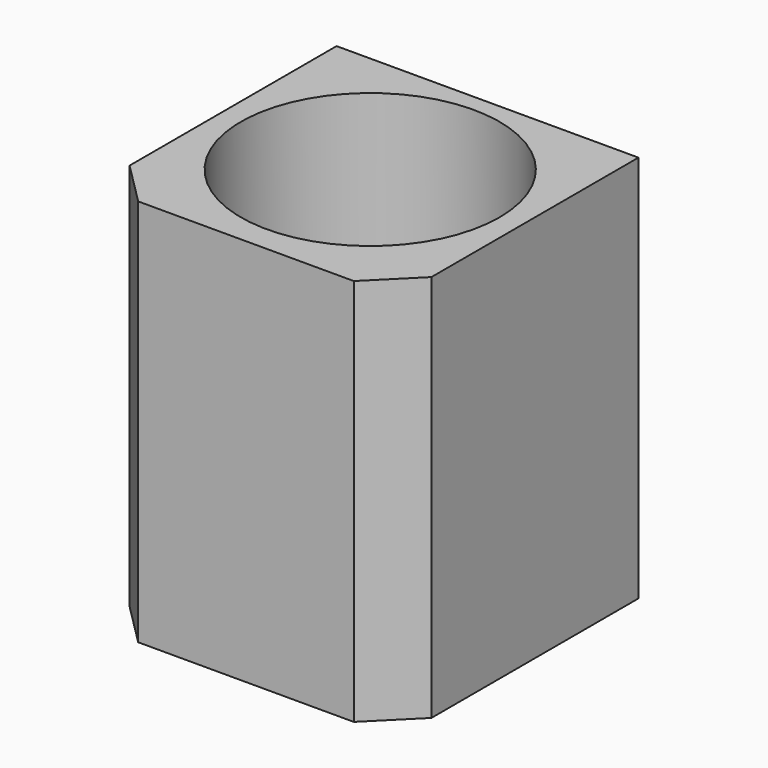
from build123d import *

# Parameters (mm, degrees)
F0_W     = 35
F0_H     = 45
F1_DEPTH = 35
F2_W     = 15
F2_H     = 4
F3_DEPTH = 6
F4_W     = 15
F4_H     = 4
F5_DEPTH = 7
F6_SIZE  = 5
F7_R     = 15
F8_DEPTH = 45.001


with BuildPart() as f1:
    # F0 (on Front) → F1 (new body)
    with BuildSketch(Plane.XZ):
        Rectangle(F0_W, F0_H)
    extrude(amount=F1_DEPTH)

    # F2 (on face) → F3 (join)
    with BuildSketch(Plane(origin=(0, 0, 0), x_dir=(-1, 0, 0), z_dir=(0, 1, 0))):
        with Locations((0, 13)):
            Rectangle(F2_W, F2_H)
    extrude(amount=F3_DEPTH)

    # F4 (on face) → F5 (join)
    with BuildSketch(Plane(origin=(0, 0, 11), x_dir=(1, 0, 0), z_dir=(0, 0, -1))):
        with Locations((0, -4)):
            Rectangle(F4_W, F4_H)
    extrude(amount=F5_DEPTH)

    # F6
    f6_edges = [f1.edges().sort_by_distance(p)[0] for p in [
        (-17.5, -35, 0),
        (17.5, -35, 0),
    ]]
    chamfer(f6_edges, length=F6_SIZE)

    # F7 (on face) → F8 (cut, through all)
    with BuildSketch(Plane.XY.offset(22.5)):
        with Locations((0, -17)):
            Circle(F7_R)
    extrude(amount=-F8_DEPTH, mode=Mode.SUBTRACT)


solid = f1.part
